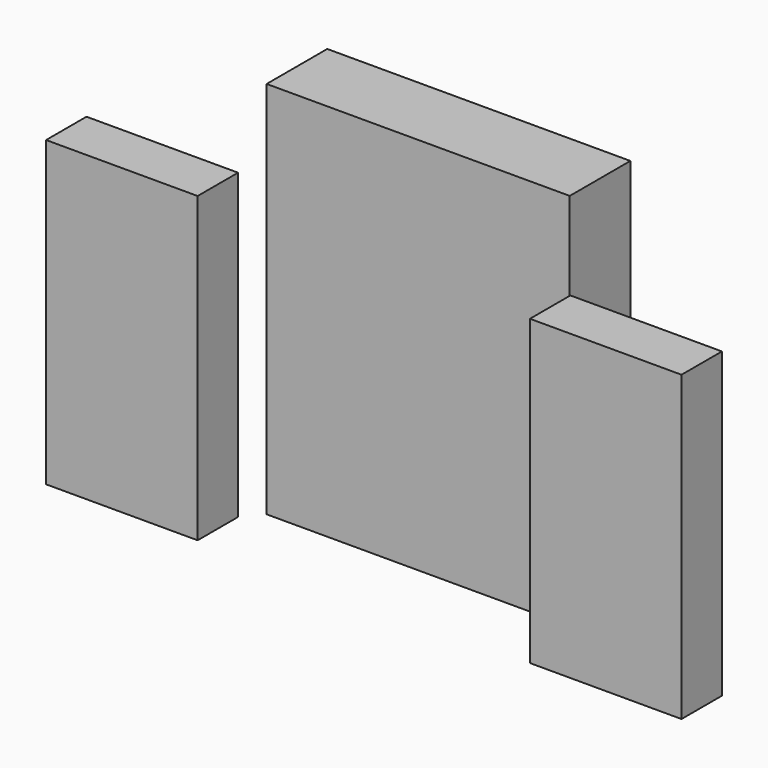
from build123d import *

# Parameters (mm, degrees)
F0_W     = 1200
F0_H     = 300
F1_DEPTH = 1500
F2_W     = 600
F2_H     = 200
F3_DEPTH = 1200


with BuildPart() as f1:
    # F0 (on Top) → F1 (new body)
    with BuildSketch(Plane.XY):
        Rectangle(F0_W, F0_H)
    extrude(amount=F1_DEPTH)


with BuildPart() as f3:
    # F2 (on Top) → F3 (new body)
    with BuildSketch(Plane.XY):
        with Locations((-957.815278, -319.148949)):
            Rectangle(F2_W, F2_H)
        with Locations((957.815278, -319.148949)):
            Rectangle(F2_W, F2_H)
    extrude(amount=F3_DEPTH)


solid = Compound([f1.part, f3.part])
